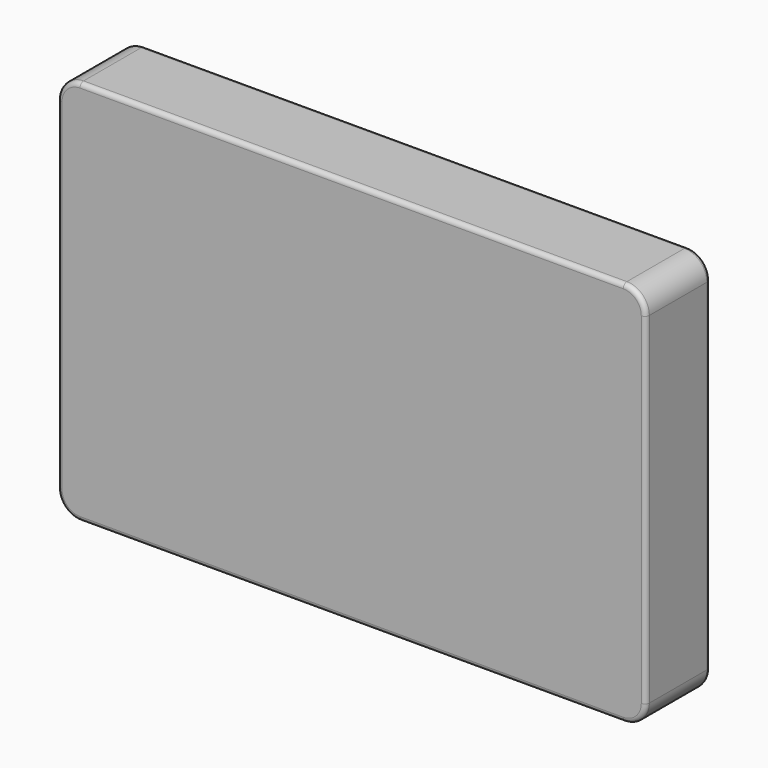
from build123d import *

# Parameters (mm, degrees)
F0_W     = 131
F0_H     = 86
F1_DEPTH = 18
F2_R     = 5
F3_R     = 1


with BuildPart() as f1:
    # F0 (on Front) → F1 (new body)
    with BuildSketch(Plane.XZ):
        Rectangle(F0_W, F0_H)
    extrude(amount=-F1_DEPTH)

    # F2
    f2_edges = [f1.edges().sort_by_distance(p)[0] for p in [
        (-65.5, 9, 43),
        (65.5, 9, 43),
        (65.5, 9, -43),
        (-65.5, 9, -43),
    ]]
    fillet(f2_edges, radius=F2_R)

    # F3
    f3_edges = [f1.edges().sort_by_distance(p)[0] for p in [
        (0, 18, -43),
        (-64.035534, 18, -41.535534),
        (64.035534, 18, -41.535534),
        (-65.5, 18, 0),
        (65.5, 18, 0),
        (-64.035534, 18, 41.535534),
        (64.035534, 18, 41.535534),
        (0, 18, 43),
        (0, 0, -43),
        (-64.035534, 0, -41.535534),
        (64.035534, 0, -41.535534),
        (-65.5, 0, 0),
        (65.5, 0, 0),
        (-64.035534, 0, 41.535534),
        (64.035534, 0, 41.535534),
        (0, 0, 43),
    ]]
    fillet(f3_edges, radius=F3_R)


solid = f1.part
